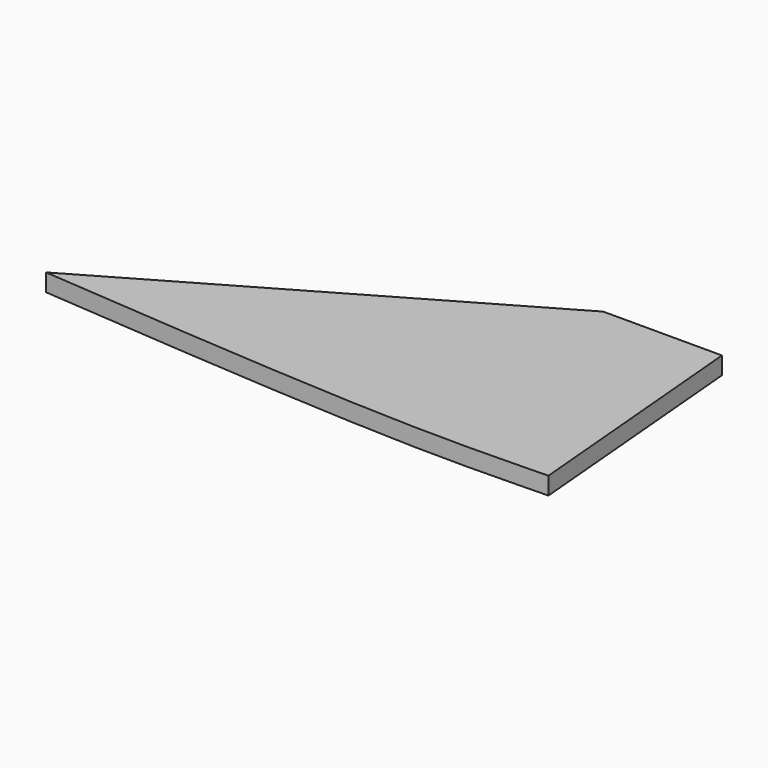
from build123d import *

# Parameters (mm, degrees)
F2_DEPTH = 289.62096
F3_W     = 2609.1565788729
F3_H     = 944.88
F4_DEPTH = 289.6219601


with BuildPart() as f2:
    # F1 (on face) → F2 (new body)
    with BuildSketch(Plane.XY):
        with BuildLine():
            Line((10107.6422951893, 5835.65), (2171.446, 1253.6849326307))
            add(Edge.make_bspline(
                [(2171.446, 1253.6849326307), (4546.0449781619, 1064.7242528498), (8353.0141507847, 768.7265022765), (10421.5536540775, 862.3831522697), (10785.1970337564, 866.8890709604)],
                knots=[0, 0, 0, 0, 0.6430051741, 0.9751479153, 0.9751479153, 0.9751479153, 0.9751479153], degree=3))
            Line((10785.1970337564, 866.8890709604), (10350.4867806949, 5835.65))
            Line((10350.4867806949, 5835.65), (10107.6422951893, 5835.65))
        make_face()
    extrude(amount=F2_DEPTH)

    # F3 (on face) → F4 (cut, through all)
    with BuildSketch(Plane.XY.offset(289.62096)):
        with Locations((9708.2411370394, 5363.21)):
            Rectangle(F3_W, F3_H)
    extrude(amount=-F4_DEPTH, mode=Mode.SUBTRACT)


solid = f2.part
